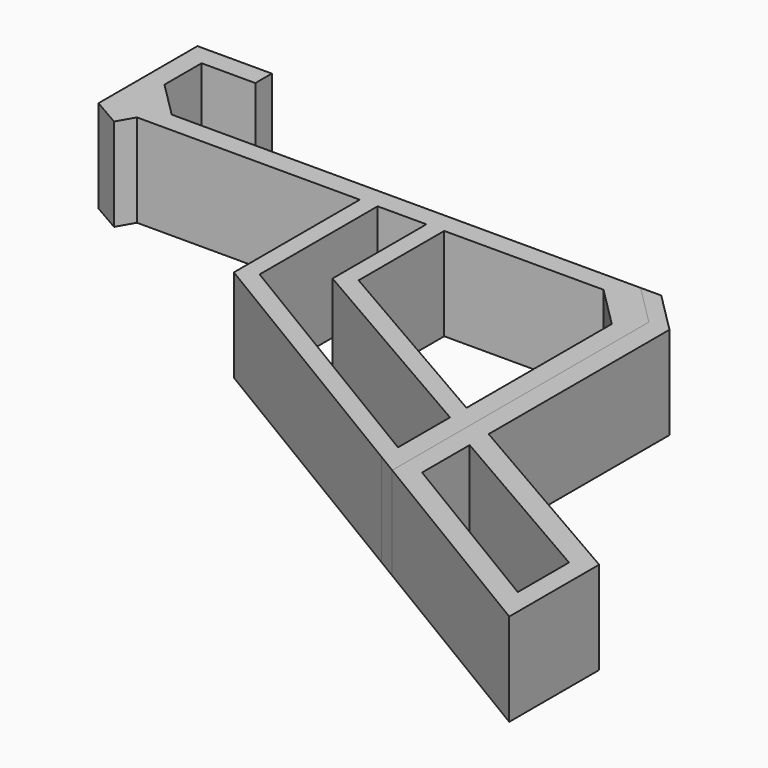
from build123d import *

# Parameters (mm, degrees)
F1_DEPTH  = 9
F3_DEPTH  = 25
F5_DEPTH  = 18
F7_DEPTH  = 18
F8_SIZE   = 8
F9_SIZE   = 8
F11_DEPTH = 25
F13_DEPTH = 18
F15_DEPTH = 25
F17_DEPTH = 18
F19_DEPTH = 18


with BuildPart() as f1:
    # F0 (on Top) → F1 (new body, symmetric)
    with BuildSketch(Plane.XY):
        Polygon((-10.432638064, 16), (0, 16), (0, 20), (-14.432638064, 20), (-14.432638064, -4), (91.567361936, -4), (95.567361936, -4), (95.567361936, 0), (-3.432638064, 0), (-10.432638064, 0), (-10.432638064, 7), align=None)
        Polygon((-3.432638064, 0), (-10.432638064, 7), (-10.432638064, 0), align=None)
        Polygon((95.567361936, -4), (91.567361936, -4), (91.567361936, -67.8584948182), (95.567361936, -70.2682493397), align=None)
    extrude(amount=F1_DEPTH, both=True)

    # F2 (on face) → F3 (cut)
    with BuildSketch(Plane.XY.offset(9)):
        Polygon((-43.0447869003, -70.2682493397), (95.567361936, -70.2682493397), (-14.432638064, -4), (-43.0447869003, -4), align=None)
    extrude(amount=-F3_DEPTH, mode=Mode.SUBTRACT)

    # F4 (on face) → F5 (join)
    with BuildSketch(Plane.XY.offset(9)):
        Polygon((36.264283176, -35.9292474091), (91.567361936, -67.8584948182), (146.870440696, -35.9292474091), (146.870440696, 27.9292474091), (91.567361936, 59.8584948182), (36.264283176, 27.9292474091), align=None)
        Polygon((143.4063390808, -33.9292474091), (91.567361936, -63.8584948182), (39.7283847911, -33.9292474091), (39.7283847911, 25.9292474091), (91.567361936, 55.8584948182), (143.4063390808, 25.9292474091), align=None, mode=Mode.SUBTRACT)
    extrude(amount=-F5_DEPTH)

    # F6 (on face) → F7 (join)
    with BuildSketch(Plane.XY.offset(9)):
        Polygon((49.1924864062, -26.7745468707), (95.567361936, -53.5490937415), (141.9422374657, -26.7745468707), (141.9422374657, 26.7745468707), (95.567361936, 53.5490937415), (49.1924864062, 26.7745468707), align=None)
        Polygon((138.4781358506, -24.7745468707), (95.567361936, -49.5490937415), (52.6565880214, -24.7745468707), (52.6565880214, 24.7745468707), (95.567361936, 49.5490937415), (138.4781358506, 24.7745468707), align=None, mode=Mode.SUBTRACT)
    extrude(amount=-F7_DEPTH)

    # F8
    f8_edges = [f1.edges().sort_by_distance(p)[0] for p in [
        (91.567362, -4, 0),
    ]]
    chamfer(f8_edges, length=F8_SIZE)

    # F9
    f9_edges = [f1.edges().sort_by_distance(p)[0] for p in [
        (95.567362, 0, 0),
    ]]
    chamfer(f9_edges, length=F9_SIZE)

    # F10 (on face) → F11 (cut)
    with BuildSketch(Plane.XY.offset(9)):
        Polygon((24.8906668276, 40.9471578896), (28.4933988005, 0), (95.567361936, 0), (95.567361936, -73.1679201126), (150.7629007101, -38.6447645724), (155.2586406469, 64.3327608705), (108.4874495864, 79.6543508768), align=None)
    extrude(amount=-F11_DEPTH, mode=Mode.SUBTRACT)

    # F12 (on face) → F13 (join)
    with BuildSketch(Plane.XY.offset(9)):
        Polygon((-6.9714882909, -4), (-14.432638064, -4), (-8.8367757342, -7.2307726225), align=None)
    extrude(amount=-F13_DEPTH)

    # F14 (on face) → F15 (cut)
    with BuildSketch(Plane.XY.offset(9)):
        Polygon((95.567361936, -70.2682493397), (-14.432638064, -4), (-31.3558727503, -4), (95.567361936, -79.2363807559), align=None)
    extrude(amount=-F15_DEPTH, mode=Mode.SUBTRACT)

    # F16 (on face) → F17 (join)
    with BuildSketch(Plane.XY.offset(9)):
        Polygon((91.567361936, -67.8584948182), (91.567361936, -63.8584948182), (39.7283847911, -32.6286924278), (36.264283176, -34.5417837953), align=None)
    extrude(amount=-F17_DEPTH)


with BuildPart() as f19:
    # F18 (on face) → F19 (new body)
    with BuildSketch(Plane.XY.offset(9)):
        Polygon((95.567361936, -65.5984616728), (95.567361936, -70.2682493397), (139.4050659721, -96.6777757173), (139.4050659721, -92.0079880504), (135.4050659721, -89.598233529), (99.567361936, -68.0082161942), align=None)
        Polygon((95.567361936, -54.167895895), (95.567361936, -65.5984616728), (99.567361936, -68.0082161942), (99.567361936, -56.4772969717), align=None)
        Polygon((135.4050659721, -89.598233529), (139.4050659721, -92.0079880504), (139.4050659721, -79.4776061209), (135.4050659721, -77.1682050441), align=None)
        Polygon((95.567361936, -49.5490937415), (95.567361936, -54.167895895), (99.567361936, -56.4772969717), (99.567361936, -51.8584948182), align=None)
        Polygon((135.4050659721, -77.1682050441), (139.4050659721, -79.4776061209), (139.4050659721, -74.8588039673), (131.4809072449, -70.2837887931), (99.567361936, -51.8584948182), (99.567361936, -56.4772969717), align=None)
        Polygon((95.567361936, -8), (95.567361936, -49.5490937415), (99.567361936, -51.8584948182), (99.567361936, -8), (91.567361936, 0), (87.567361936, 0), align=None)
    extrude(amount=-F19_DEPTH)


solid = Compound([f1.part, f19.part])
